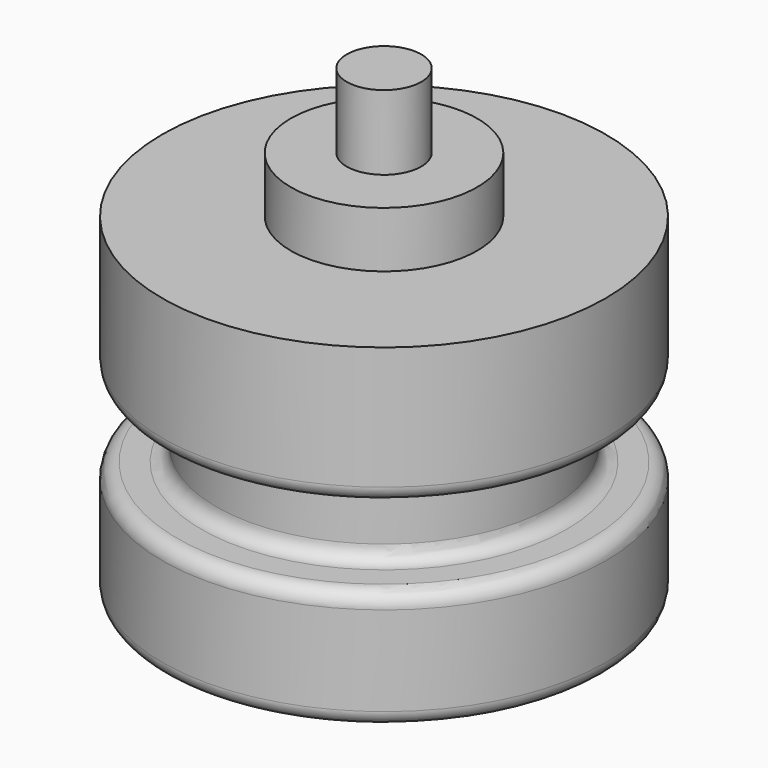
from build123d import *

# Parameters (mm, degrees)
F2_R = 0.2


with BuildPart() as f1:
    # F0 (on Front) → F1 (revolve)
    with BuildSketch(Plane.XZ):
        Polygon((-2.975, 0), (0, 0), (0, 6.25), (-0.5, 6.25), (-0.5, 5.25), (-1.25, 5.25), (-1.25, 4.5), (-2.975, 4.5), (-2.975, 2.65), (-2.25, 2.65), (-2.25, 1.6), (-2.975, 1.6), align=None)
    revolve(axis=Axis((0, 0, 3.125), (0, 0, -1)))

    # F2
    f2_edges = [f1.edges().sort_by_distance(p)[0] for p in [
        (2.975, 0, 2.65),
        (2.25, 0, 1.6),
        (2.25, 0, 2.65),
        (2.975, 0, 1.6),
        (2.975, 0, 0),
    ]]
    fillet(f2_edges, radius=F2_R)


solid = f1.part
